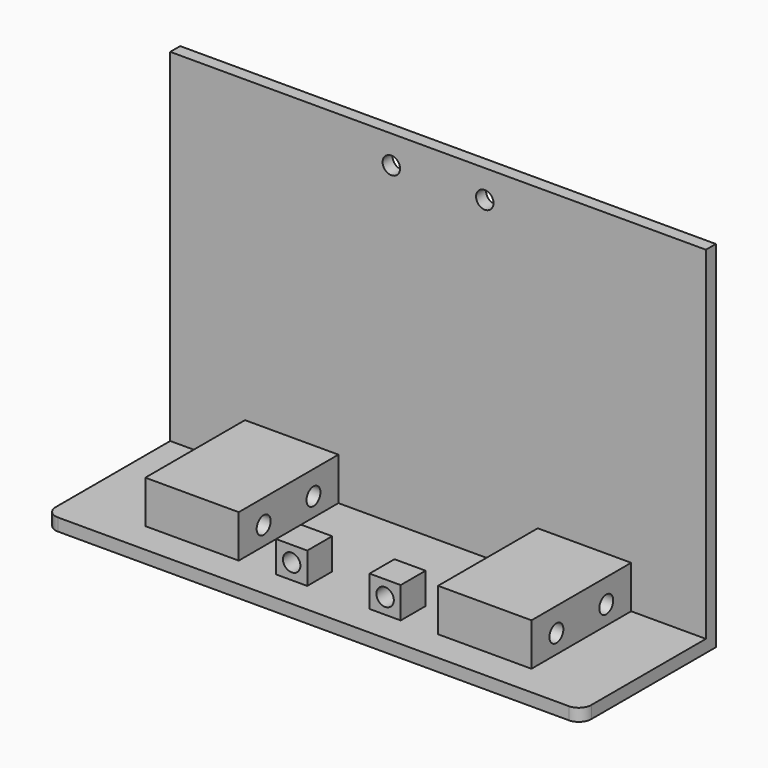
from build123d import *

# Parameters (mm, degrees)
PAD_DEPTH       = 2
SKETCH010_W     = 86
SKETCH010_H     = 2
PAD001_DEPTH    = 55
SKETCH009_R     = 1.4
POCKET_DEPTH    = 2
SKETCH003_W     = 15
SKETCH003_H     = 20
PAD002_DEPTH    = 6.85
SKETCH004_R     = 1.4
POCKET001_DEPTH = 15
SKETCH005_R     = 1.4
POCKET002_DEPTH = 15
SKETCH006_W     = 5
SKETCH006_H     = 5
PAD003_DEPTH    = 5
SKETCH007_R     = 1.4
POCKET003_DEPTH = 5
SKETCH008_R     = 1.4
POCKET004_DEPTH = 5


with BuildPart() as part:
    # Sketch → Pad (new body)
    with BuildSketch(Plane.XY):
        with BuildLine():
            Line((-43, 2), (43, 2))
            Line((43, 2), (43, -23))
            ThreePointArc((41, -25), (42.414214, -24.414214), (43, -23))
            Line((41, -25), (-41, -25))
            ThreePointArc((-43, -23), (-42.414214, -24.414214), (-41, -25))
            Line((-43, -23), (-43, 2))
        make_face()
    extrude(amount=PAD_DEPTH)

    # Sketch010 (on Face8 of Pad) → Pad001 (join)
    with BuildSketch(Plane.XY.offset(2)):
        with Locations((0, 1)):
            Rectangle(SKETCH010_W, SKETCH010_H)
    extrude(amount=PAD001_DEPTH)

    # Sketch009 (on Face13 of Pad001) → Pocket (cut)
    with BuildSketch(Plane.XZ):
        with Locations((-7.5, 52.5)):
            Circle(SKETCH009_R)
        with Locations((7.5, 52.5)):
            Circle(SKETCH009_R)
    extrude(amount=-POCKET_DEPTH, mode=Mode.SUBTRACT)

    # Sketch003 (on Face7 of Pocket) → Pad002 (join)
    with BuildSketch(Plane.XY.offset(2)):
        with Locations((-23.5, -10)):
            Rectangle(SKETCH003_W, SKETCH003_H)
        with Locations((23.5, -10)):
            Rectangle(SKETCH003_W, SKETCH003_H)
    extrude(amount=PAD002_DEPTH)

    # Sketch004 (on Face16 of Pad002) → Pocket001 (cut)
    with BuildSketch(Plane(origin=(-31, 0, 0), x_dir=(0, -1, 0), z_dir=(-1, 0, 0))):
        with Locations((5, 5)):
            Circle(SKETCH004_R)
        with Locations((15, 5)):
            Circle(SKETCH004_R)
    extrude(amount=-POCKET001_DEPTH, mode=Mode.SUBTRACT)

    # Sketch005 (on Face21 of Pocket001) → Pocket002 (cut)
    with BuildSketch(Plane.YZ.offset(31)):
        with Locations((-15, 5)):
            Circle(SKETCH005_R)
        with Locations((-5, 5)):
            Circle(SKETCH005_R)
    extrude(amount=-POCKET002_DEPTH, mode=Mode.SUBTRACT)

    # Sketch006 (on Face7 of Pocket002) → Pad003 (join)
    with BuildSketch(Plane.XY.offset(2)):
        with Locations((-7.5, -17.5)):
            Rectangle(SKETCH006_W, SKETCH006_H)
        with Locations((7.5, -17.5)):
            Rectangle(SKETCH006_W, SKETCH006_H)
    extrude(amount=PAD003_DEPTH)

    # Sketch007 (on Face23 of Pad003) → Pocket003 (cut)
    with BuildSketch(Plane.XZ.offset(20)):
        with Locations((-7.5, 4.5)):
            Circle(SKETCH007_R)
    extrude(amount=-POCKET003_DEPTH, mode=Mode.SUBTRACT)

    # Sketch008 (on Face27 of Pocket003) → Pocket004 (cut)
    with BuildSketch(Plane.XZ.offset(20)):
        with Locations((7.5, 4.5)):
            Circle(SKETCH008_R)
    extrude(amount=-POCKET004_DEPTH, mode=Mode.SUBTRACT)


solid = part.part
